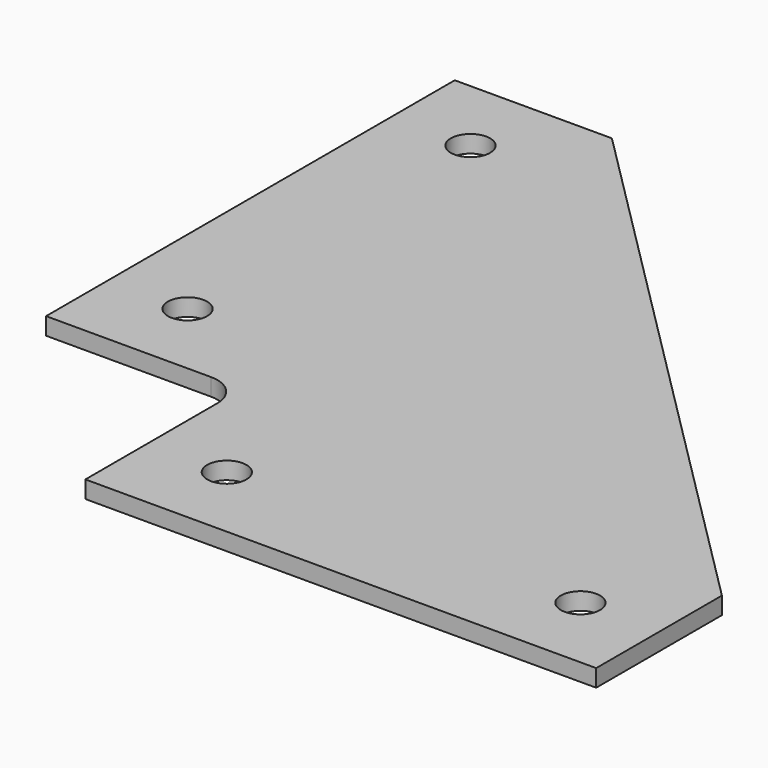
from build123d import *

# Parameters (mm, degrees)
F0_W     = 82.55
F0_H     = 25.4
F0_R     = 3.175
F0_W_2   = 25.4
F0_H_2   = 82.55
F1_DEPTH = 2.794
F2_R     = 5.08


with BuildPart() as f1:
    # F0 (on Top) → F1 (new body)
    with BuildSketch(Plane.XY):
        Polygon((25.4, 114.3), (25.4, 31.75), (31.75, 31.75), (31.75, 25.4), (114.3, 25.4), align=None)
        with Locations((73.025, 12.7)):
            Rectangle(F0_W, F0_H)
        with Locations((44.45, 12.7)):
            Circle(F0_R, mode=Mode.SUBTRACT)
        with Locations((101.6, 12.7)):
            Circle(F0_R, mode=Mode.SUBTRACT)
        with Locations((12.7, 73.025)):
            Rectangle(F0_W_2, F0_H_2)
        with Locations((12.7, 44.45)):
            Circle(F0_R, mode=Mode.SUBTRACT)
        with Locations((12.7, 101.6)):
            Circle(F0_R, mode=Mode.SUBTRACT)
    extrude(amount=F1_DEPTH)

    # F2
    f2_edges = [f1.edges().sort_by_distance(p)[0] for p in [
        (31.75, 31.75, 1.397),
    ]]
    fillet(f2_edges, radius=F2_R)


solid = f1.part
